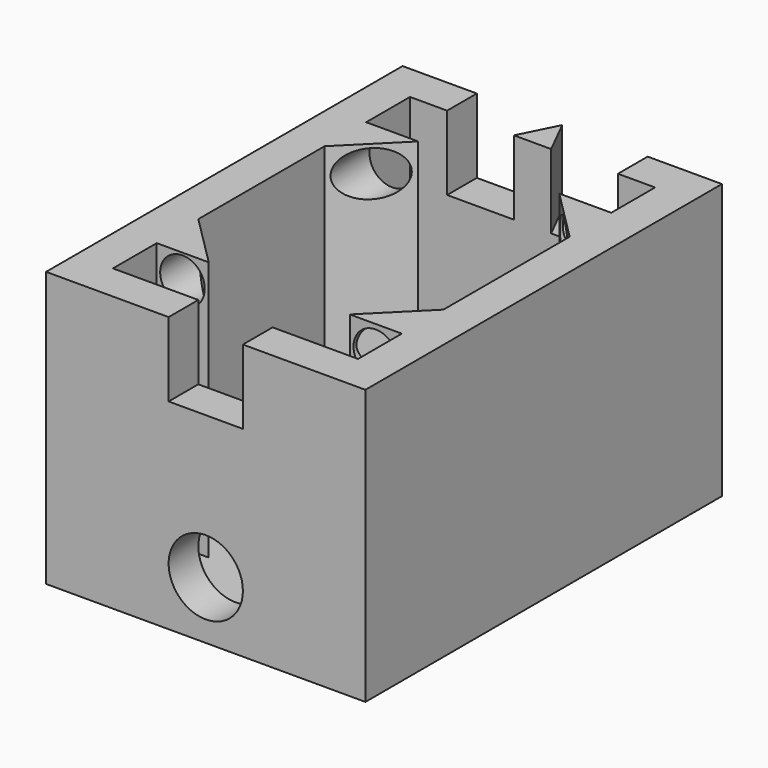
from build123d import *

# Parameters (mm, degrees)
F0_W      = 43
F0_H      = 60
F1_DEPTH  = 37
F2_W      = 33
F2_H      = 50
F3_DEPTH  = 35
F5_DEPTH  = 10
F7_DEPTH  = 10
F9_DEPTH  = 10
F12_DEPTH = 14
F14_DEPTH = 14
F16_DEPTH = 14
F18_DEPTH = 14
F19_R     = 5
F20_DEPTH = 6
F22_DEPTH = 33
F23_DEPTH = 33
F24_DEPTH = 33
F25_DEPTH = 33
F26_R     = 3.000008
F27_DEPTH = 15
F28_R     = 3.025892
F29_DEPTH = 15
F30_R     = 3
F31_DEPTH = 15
F32_R     = 3
F33_DEPTH = 15
F34_DEPTH = 35
F35_R     = 3
F36_DEPTH = 10
F37_R     = 3.000007
F38_DEPTH = 10
F39_R     = 3.004044
F40_DEPTH = 10
F41_R     = 3.03892
F42_DEPTH = 10


with BuildPart() as f1:
    # F0 (on Top) → F1 (new body)
    with BuildSketch(Plane.XY):
        Rectangle(F0_W, F0_H)
    extrude(amount=F1_DEPTH)

    # F2 (on face) → F3 (cut)
    with BuildSketch(Plane.XY.offset(37)):
        Rectangle(F2_W, F2_H)
    extrude(amount=-F3_DEPTH, mode=Mode.SUBTRACT)

    # F4 (on face) → F5 (cut)
    with BuildSketch(Plane.XY.offset(37)):
        Polygon((11.5, 30), (0, 30), (-11.5, 30), (-11.5, 25), (0, 25), (11.5, 25), align=None)
    extrude(amount=-F5_DEPTH, mode=Mode.SUBTRACT)

    # F6 (on face) → F7 (join)
    with BuildSketch(Plane.XY.offset(27)):
        Polygon((2.5, 25), (0, 30), (-2.5, 25), (0, 25), align=None)
    extrude(amount=F7_DEPTH)

    # F8 (on face) → F9 (cut)
    with BuildSketch(Plane.XY.offset(37)):
        Polygon((5, -25), (0, -25), (-5, -25), (-5, -30), (0, -30), (5, -30), align=None)
    extrude(amount=-F9_DEPTH, mode=Mode.SUBTRACT)

    # F11 (on face) → F12 (join)
    with BuildSketch(Plane.XY.offset(2)):
        Polygon((8, 19), (0, 19), (-8, 19), (-8, 0), (-8, -8), (0, -8), (8, -8), (8, 0), align=None)
    extrude(amount=F12_DEPTH)

    # F13 (on face) → F14 (cut)
    with BuildSketch(Plane.XY.offset(16)):
        Polygon((6.5, 17), (0, 17), (-6.5, 17), (-6.5, 0), (-6.5, -6), (0, -6), (6.5, -6), (6.5, 0), align=None)
    extrude(amount=-F14_DEPTH, mode=Mode.SUBTRACT)

    # F15 (on face) → F16 (cut)
    with BuildSketch(Plane.XY.offset(16)):
        Polygon((3, 19), (0, 19), (-3, 19), (-3, 17), (0, 17), (3, 17), align=None)
    extrude(amount=-F16_DEPTH, mode=Mode.SUBTRACT)

    # F17 (on face) → F18 (cut)
    with BuildSketch(Plane.XY.offset(16)):
        Polygon((3, -6), (0, -6), (-3, -6), (-3, -8), (0, -8), (3, -8), align=None)
    extrude(amount=-F18_DEPTH, mode=Mode.SUBTRACT)

    # F19 (on face) → F20 (cut)
    with BuildSketch(Plane.XZ.offset(30)):
        with Locations((0, 7.785951)):
            Circle(F19_R)
    extrude(amount=-F20_DEPTH, mode=Mode.SUBTRACT)

    # F21 (on face) → F22 (join)
    with BuildSketch(Plane.XY.offset(37)):
        Polygon((-16.5, -10.623924), (-16.5, -17.623924), (-9.5, -17.623924), align=None)
    extrude(amount=-F22_DEPTH)

    # F21 (on face) → F23 (join)
    with BuildSketch(Plane.XY.offset(37)):
        Polygon((16.5, -17.623924), (16.5, -10.623924), (9.5, -17.623924), align=None)
    extrude(amount=-F23_DEPTH)

    # F21 (on face) → F24 (join)
    with BuildSketch(Plane.XY.offset(37)):
        Polygon((-9.5, 17.623924), (-16.5, 17.623924), (-16.5, 10.623924), align=None)
    extrude(amount=-F24_DEPTH)

    # F21 (on face) → F25 (join)
    with BuildSketch(Plane.XY.offset(37)):
        Polygon((9.5, 17.623924), (16.5, 10.623924), (16.5, 17.623924), align=None)
    extrude(amount=-F25_DEPTH)

    # F26 (on face) → F27 (cut)
    with BuildSketch(Plane.XZ.offset(17.623924)):
        with Locations((-13.006919, 32.922085)):
            Circle(F26_R)
    extrude(amount=-F27_DEPTH, mode=Mode.SUBTRACT)

    # F28 (on face) → F29 (cut)
    with BuildSketch(Plane.XZ.offset(17.623924)):
        with Locations((13.051108, 32.73694)):
            Circle(F28_R)
    extrude(amount=-F29_DEPTH, mode=Mode.SUBTRACT)

    # F30 (on face) → F31 (cut)
    with BuildSketch(Plane(origin=(0, 17.623924, 0), x_dir=(-1, 0, 0), z_dir=(0, 1, 0))):
        with Locations((-12.977869, 32.83175)):
            Circle(F30_R)
    extrude(amount=-F31_DEPTH, mode=Mode.SUBTRACT)

    # F32 (on face) → F33 (cut)
    with BuildSketch(Plane(origin=(0, 17.623924, 0), x_dir=(-1, 0, 0), z_dir=(0, 1, 0))):
        with Locations((13.297083, 33.348583)):
            Circle(F32_R)
    extrude(amount=-F33_DEPTH, mode=Mode.SUBTRACT)

    # F21 (on face) → F34 (join)
    with BuildSketch(Plane.XY.offset(37)):
        Polygon((-16.5, -10.623924), (-16.5, -17.623924), (-9.5, -17.623924), align=None)
        Polygon((16.5, -17.623924), (16.5, -10.623924), (9.5, -17.623924), align=None)
        Polygon((-9.5, 17.623924), (-16.5, 17.623924), (-16.5, 10.623924), align=None)
        Polygon((9.5, 17.623924), (16.5, 10.623924), (16.5, 17.623924), align=None)
    extrude(amount=-F34_DEPTH)

    # F35 (on face) → F36 (cut)
    with BuildSketch(Plane.XZ.offset(17.623924)):
        with Locations((-13.037096, 33.683364)):
            Circle(F35_R)
    extrude(amount=-F36_DEPTH, mode=Mode.SUBTRACT)

    # F37 (on face) → F38 (cut)
    with BuildSketch(Plane.XZ.offset(17.623924)):
        with Locations((12.993197, 33.357316)):
            Circle(F37_R)
    extrude(amount=-F38_DEPTH, mode=Mode.SUBTRACT)

    # F39 (on face) → F40 (cut)
    with BuildSketch(Plane(origin=(0, 17.623924, 0), x_dir=(-1, 0, 0), z_dir=(0, 1, 0))):
        with Locations((-12.973316, 33.344424)):
            Circle(F39_R)
    extrude(amount=-F40_DEPTH, mode=Mode.SUBTRACT)

    # F41 (on face) → F42 (cut)
    with BuildSketch(Plane(origin=(0, 17.623924, 0), x_dir=(-1, 0, 0), z_dir=(0, 1, 0))):
        with Locations((13.015212, 33.45837)):
            Circle(F41_R)
    extrude(amount=-F42_DEPTH, mode=Mode.SUBTRACT)


solid = f1.part
